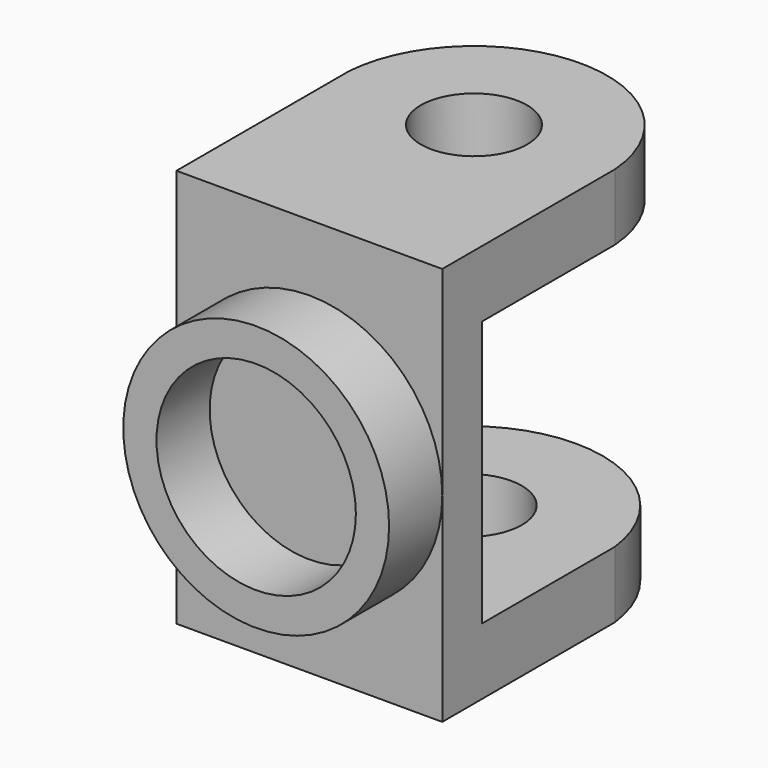
from build123d import *

# Parameters (mm, degrees)
SKETCH_W      = 80
SKETCH_H      = 120
PAD_DEPTH     = 7.5
SKETCH001_R   = 16
PAD001_DEPTH  = 20
SKETCH002_R   = 16
PAD002_DEPTH  = 20
SKETCH003_R   = 40
SKETCH003_R_2 = 30
PAD003_DEPTH  = 20


with BuildPart() as part:
    # Sketch → Pad (new body, symmetric)
    with BuildSketch(Plane.XZ):
        with Locations((-1.950326, 25.453721)):
            Rectangle(SKETCH_W, SKETCH_H)
    extrude(amount=PAD_DEPTH, both=True)

    # Sketch001 (on Face3 of Pad) → Pad001 (join)
    with BuildSketch(Plane(origin=(0, 0, -34.546279), x_dir=(1, 0, 0), z_dir=(0, 0, -1))):
        with BuildLine():
            Line((-41.950326, -7.5), (38.049674, -7.5))
            Line((38.049674, -7.5), (38.049674, -57.5))
            ThreePointArc((-41.950326, -57.5), (-1.950326, -92.751304), (38.049674, -57.5))
            Line((-41.950326, -7.5), (-41.950326, -57.5))
        make_face()
        with Locations((-1.950326, -52.431456)):
            Circle(SKETCH001_R, mode=Mode.SUBTRACT)
    extrude(amount=-PAD001_DEPTH)

    # Sketch002 (on Face1 of Pad001) → Pad002 (join)
    with BuildSketch(Plane(origin=(0, 0, 85.453721), x_dir=(-1, 0, 0), z_dir=(0, 0, 1))):
        with BuildLine():
            Line((-38.049674, -57.5), (-38.049674, -7.5))
            Line((-38.049674, -7.5), (41.950326, -7.5))
            Line((41.950326, -7.5), (41.950326, -57.5))
            ThreePointArc((-38.049674, -57.5), (1.950326, -94.541734), (41.950326, -57.5))
        make_face()
        with Locations((1.950326, -54.423606)):
            Circle(SKETCH002_R, mode=Mode.SUBTRACT)
    extrude(amount=-PAD002_DEPTH)

    # Sketch003 (on Face5 of Pad002) → Pad003 (join)
    with BuildSketch(Plane.XZ.offset(7.5)):
        with Locations((-1.950326, 25.453721)):
            Circle(SKETCH003_R)
        with Locations((-1.950326, 25.453721)):
            Circle(SKETCH003_R_2, mode=Mode.SUBTRACT)
    extrude(amount=PAD003_DEPTH)


solid = part.part
